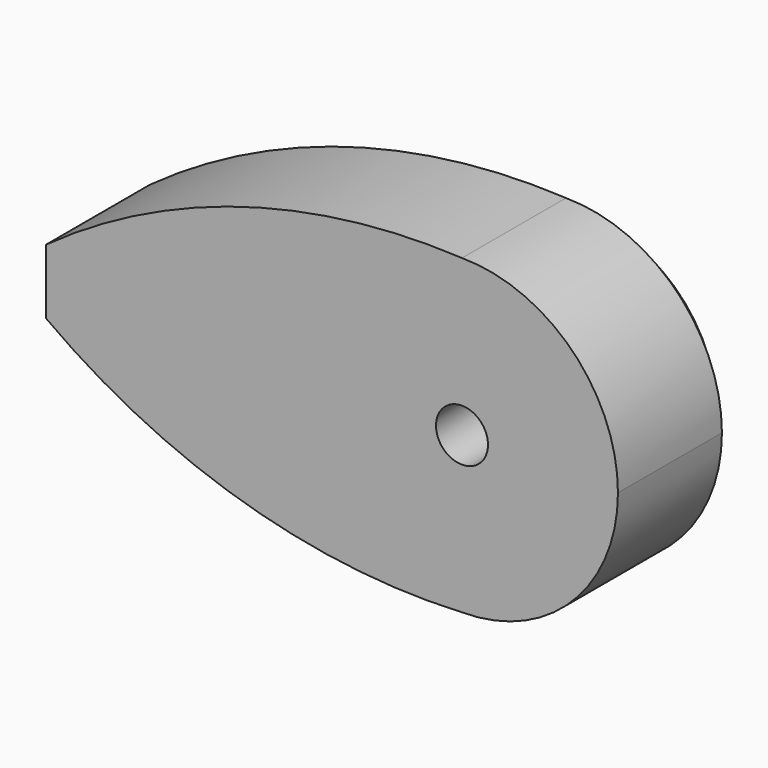
from build123d import *

# Parameters (mm, degrees)
F0_R     = 5
F1_DEPTH = 1
F3_DEPTH = 5
F4_W     = 11.32601
F4_H     = 3.74272
F5_DEPTH = 5
F6_R     = 2.25
F7_DEPTH = 3
F8_R     = 1
F9_DEPTH = 25


with BuildPart() as f1:
    # F0 (on Front) → F1 (new body)
    with BuildSketch(Plane.XZ):
        Circle(F0_R)
    extrude(amount=F1_DEPTH)

    # F2 (on face) → F3 (join)
    with BuildSketch(Plane.XZ.offset(1)):
        with BuildLine():
            ThreePointArc((0, -6), (4.242641, -4.242641), (6, 0))
            ThreePointArc((6, 0), (4.242641, 4.242641), (0, 6))
            ThreePointArc((0, 6), (-3.774917, 4.66369), (-5.868347, 1.25))
            Line((-5.868347, 1.25), (4, 1.25))
            Line((4, 1.25), (4, -1.25))
            Line((4, -1.25), (-5.868347, -1.25))
            ThreePointArc((-5.868347, -1.25), (-3.774917, -4.66369), (0, -6))
        make_face()
        with BuildLine():
            ThreePointArc((-5.868347, 1.25), (-3.774917, 4.66369), (0, 6))
            ThreePointArc((0, 6), (-8.408096, 4.999638), (-16, 1.25))
            Line((-16, 1.25), (-5.868347, 1.25))
        make_face()
        with BuildLine():
            ThreePointArc((-16, -1.25), (-8.408096, -4.999638), (0, -6))
            ThreePointArc((0, -6), (-3.774917, -4.66369), (-5.868347, -1.25))
            Line((-5.868347, -1.25), (-16, -1.25))
        make_face()
        with BuildLine():
            ThreePointArc((-6, 0), (-5.966996, 0.628457), (-5.868347, 1.25))
            Line((-5.868347, 1.25), (-16, 1.25))
            Line((-16, 1.25), (-16, 0))
            Line((-16, 0), (-6, 0))
        make_face()
        with BuildLine():
            Line((-16, -1.25), (-5.868347, -1.25))
            ThreePointArc((-5.868347, -1.25), (-5.966996, -0.628457), (-6, 0))
            Line((-6, 0), (-16, 0))
            Line((-16, 0), (-16, -1.25))
        make_face()
    extrude(amount=F3_DEPTH)

    # F4 (on face) → F5 (join)
    with BuildSketch(Plane.XZ.offset(6)):
        with Locations((-1.024707, -0.007552)):
            Rectangle(F4_W, F4_H)
    extrude(amount=-F5_DEPTH)

    # F6 (on face) → F7 (cut)
    with BuildSketch(Plane(origin=(0, 0, 0), x_dir=(-1, 0, 0), z_dir=(0, 1, 0))):
        Circle(F6_R)
    extrude(amount=-F7_DEPTH, mode=Mode.SUBTRACT)

    # F8 (on face) → F9 (cut)
    with BuildSketch(Plane.XZ.offset(6)):
        Circle(F8_R)
    extrude(amount=-F9_DEPTH, mode=Mode.SUBTRACT)


solid = f1.part
